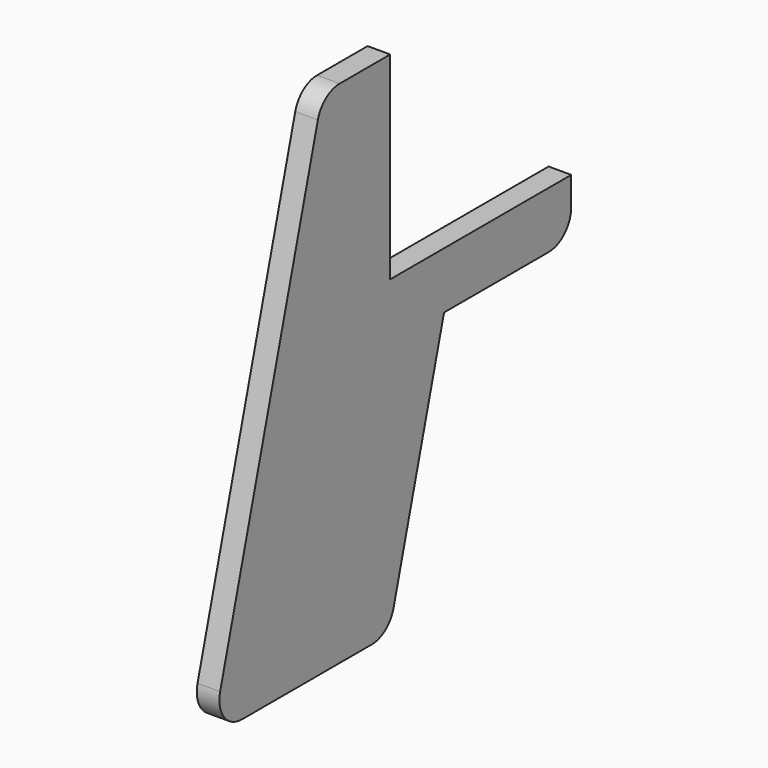
from build123d import *

# Parameters (mm, degrees)
F1_DEPTH = 4


with BuildPart() as f1:
    # F0 (on Right) → F1 (new body)
    with BuildSketch(Plane.YZ):
        with BuildLine():
            Line((40, 0), (0, 0))
            Line((0, 0), (0, 35))
            Line((0, 35), (-11.168313, 35))
            ThreePointArc((-11.168313, 35), (-14.209648, 33.968663), (-15.996325, 31.300113))
            Line((-15.996325, 31.300113), (-37.58655, -48.875883))
            ThreePointArc((-37.58655, -48.875883), (-36.7272, -53.217331), (-32.758538, -55.175996))
            Line((-32.758538, -55.175996), (-4.104376, -55.175996))
            ThreePointArc((-4.104376, -55.175996), (-1.063041, -54.144659), (0.723636, -51.476109))
            Line((0.723636, -51.476109), (11.892547, -10))
            Line((11.892547, -10), (35, -10))
            ThreePointArc((35, -10), (38.535534, -8.535534), (40, -5))
            Line((40, -5), (40, 0))
        make_face()
    extrude(amount=F1_DEPTH)


solid = f1.part
